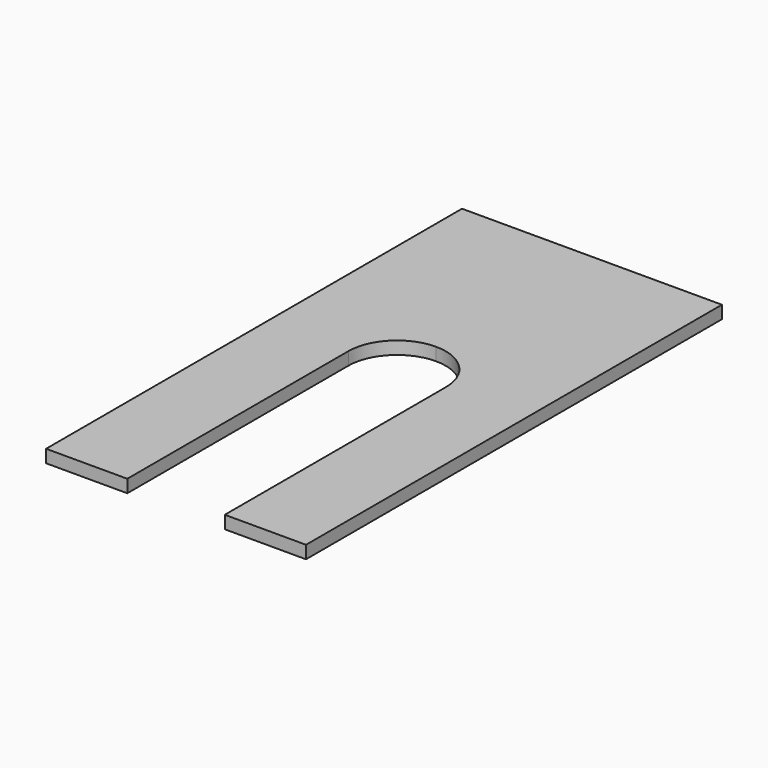
from build123d import *

# Parameters (mm, degrees)
F0_W     = 12.7
F0_H     = 203.2
F1_DEPTH = 5


with BuildPart() as f1:
    # F0 (on Top) → F1 (new body)
    with BuildSketch(Plane.XY):
        Polygon((33.632048, 111.847836), (-42.567952, 111.847836), (-42.567952, -91.352164), (-23.517952, -91.352164), (-23.517952, 16.597836), (-23.517952, 35.647836), (-4.467952, 35.647836), (14.582048, 35.647836), (14.582048, 16.597836), (14.582048, -91.352164), (33.632048, -91.352164), align=None)
        with BuildLine():
            ThreePointArc((-4.467952, 35.647836), (9.002432, 30.06822), (14.582048, 16.597836))
            Line((14.582048, 16.597836), (14.582048, 35.647836))
            Line((14.582048, 35.647836), (-4.467952, 35.647836))
        make_face()
        with BuildLine():
            Line((-23.517952, 35.647836), (-23.517952, 16.597836))
            ThreePointArc((-23.517952, 16.597836), (-17.938337, 30.06822), (-4.467952, 35.647836))
            Line((-4.467952, 35.647836), (-23.517952, 35.647836))
        make_face()
        with Locations((-48.917952, 10.247836)):
            Rectangle(F0_W, F0_H)
        with Locations((39.982048, 10.247836)):
            Rectangle(F0_W, F0_H)
    extrude(amount=F1_DEPTH)


solid = f1.part
